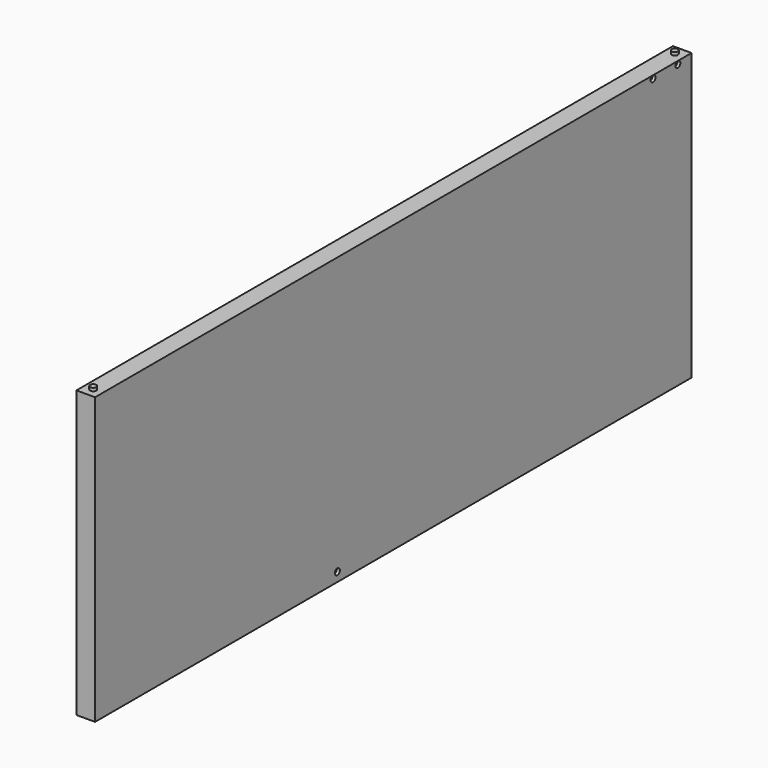
from build123d import *

# Parameters (mm, degrees)
F0_W     = 152.4
F0_H     = 6096
F1_DEPTH = 2336.8
F3_DEPTH = 25.4
F5_DEPTH = 25.4
F6_R     = 25.4
F7_DEPTH = 25.4


with BuildPart() as f1:
    # F0 (on Top) → F1 (new body)
    with BuildSketch(Plane.XY):
        Rectangle(F0_W, F0_H)
    extrude(amount=F1_DEPTH)

    # F2 (on face) → F3 (join)
    with BuildSketch(Plane.XY.offset(2336.8)):
        with BuildLine():
            Line((0, 2971.8), (25.4, 2971.8))
            ThreePointArc((25.4, 2971.8), (17.9605122421, 2989.7605122421), (0, 2997.2))
            Line((0, 2997.2), (0, 2971.8))
        make_face()
        with BuildLine():
            ThreePointArc((0, 2997.2), (-17.9605122421, 2953.8394877579), (25.4, 2971.8))
            Line((25.4, 2971.8), (0, 2971.8))
            Line((0, 2971.8), (0, 2997.2))
        make_face()
        with BuildLine():
            ThreePointArc((25.4, -2971.8), (-17.9605122421, -2953.8394877579), (0, -2997.2))
            Line((0, -2997.2), (0, -2971.8))
            Line((0, -2971.8), (25.4, -2971.8))
        make_face()
        with BuildLine():
            Line((0, -2971.8), (0, -2997.2))
            ThreePointArc((0, -2997.2), (17.9605122421, -2989.7605122421), (25.4, -2971.8))
            Line((25.4, -2971.8), (0, -2971.8))
        make_face()
    extrude(amount=F3_DEPTH)

    # F4 (on face) → F5 (join)
    with BuildSketch(Plane(origin=(0, 0, 0), x_dir=(1, 0, 0), z_dir=(0, 0, -1))):
        with BuildLine():
            ThreePointArc((25.4, 2971.8), (17.9605122421, 2989.7605122421), (0, 2997.2))
            Line((0, 2997.2), (0, 2971.8))
            Line((0, 2971.8), (25.4, 2971.8))
        make_face()
        with BuildLine():
            Line((0, 2971.8), (0, 2997.2))
            ThreePointArc((0, 2997.2), (-17.9605122421, 2953.8394877579), (25.4, 2971.8))
            Line((25.4, 2971.8), (0, 2971.8))
        make_face()
        with BuildLine():
            ThreePointArc((0, -2997.2), (17.9605122421, -2989.7605122421), (25.4, -2971.8))
            Line((25.4, -2971.8), (0, -2971.8))
            Line((0, -2971.8), (0, -2997.2))
        make_face()
        with BuildLine():
            Line((0, -2971.8), (25.4, -2971.8))
            ThreePointArc((25.4, -2971.8), (-17.9605122421, -2953.8394877579), (0, -2997.2))
            Line((0, -2997.2), (0, -2971.8))
        make_face()
    extrude(amount=F5_DEPTH)

    # F6 (on face) → F7 (cut)
    with BuildSketch(Plane.YZ.offset(76.2)):
        with BuildLine():
            Line((-571.5, 74.6252), (-571.5, 49.2252))
            ThreePointArc((-571.5, 49.2252), (-553.5394877579, 56.6646877579), (-546.1, 74.6252))
            ThreePointArc((-546.1, 74.6252), (-571.5, 100.0252), (-596.9, 74.6252))
            Line((-596.9, 74.6252), (-571.5, 74.6252))
        make_face()
        with BuildLine():
            ThreePointArc((-596.9, 74.6252), (-589.4605122421, 56.6646877579), (-571.5, 49.2252))
            Line((-571.5, 49.2252), (-571.5, 74.6252))
            Line((-571.5, 74.6252), (-596.9, 74.6252))
        make_face()
        with BuildLine():
            Line((2908.3, 2311.146), (2933.7, 2311.146))
            ThreePointArc((2933.7, 2311.146), (2926.2605122421, 2329.1065122421), (2908.3, 2336.546))
            Line((2908.3, 2336.546), (2908.3, 2311.146))
        make_face()
        with BuildLine():
            Line((2908.3, 2311.146), (2908.3, 2336.546))
            ThreePointArc((2908.3, 2336.546), (2890.3394877579, 2329.1065122421), (2882.9, 2311.146))
            Line((2882.9, 2311.146), (2908.3, 2311.146))
        make_face()
        with BuildLine():
            ThreePointArc((2882.9, 2311.146), (2908.3, 2285.746), (2933.7, 2311.146))
            Line((2933.7, 2311.146), (2908.3, 2311.146))
            Line((2908.3, 2311.146), (2882.9, 2311.146))
        make_face()
        with Locations((2654.3, 2311.146)):
            Circle(F6_R)
    extrude(amount=-F7_DEPTH, mode=Mode.SUBTRACT)


solid = f1.part
